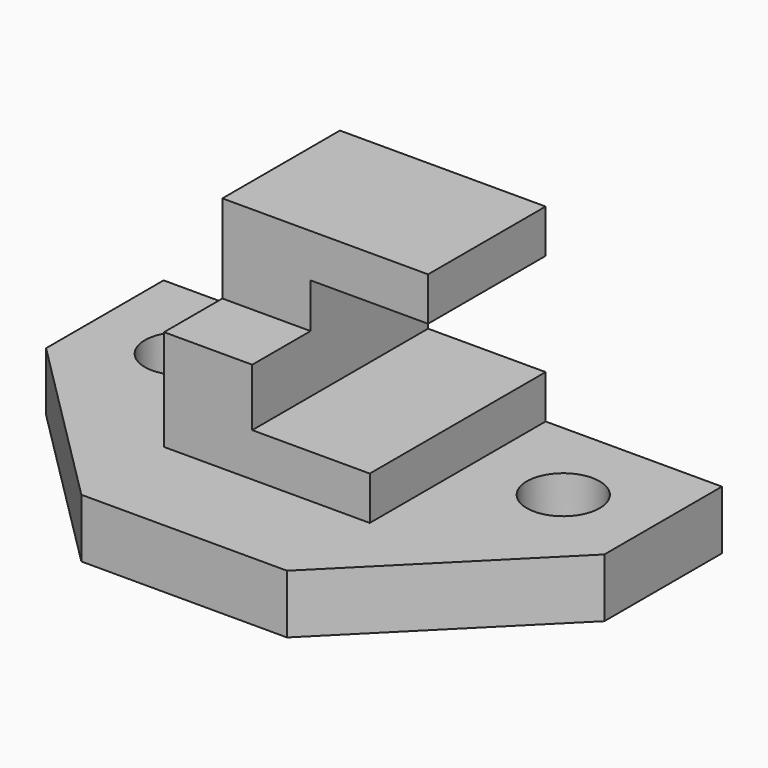
from build123d import *

# Parameters (mm, degrees)
F0_W      = 120.65
F0_H      = 12.7
F1_DEPTH  = 69.85
F2_R      = 7.874
F3_DEPTH  = 15.748
F5_DEPTH  = 12.7
F4_W      = 44.45
F4_H      = 47.498
F6_DEPTH  = 40.894
F7_W      = 47.498
F7_H      = 22.098
F8_DEPTH  = 25.4
F9_W      = 15.748
F9_H      = 19.05
F10_DEPTH = 44.45


with BuildPart() as f1:
    # F0 (on Front) → F1 (new body)
    with BuildSketch(Plane.XZ):
        with Locations((0.915147, -11.16853)):
            Rectangle(F0_W, F0_H)
    extrude(amount=F1_DEPTH)

    # F2 (on face) → F3 (cut)
    with BuildSketch(Plane.XY.offset(-4.81853)):
        with Locations((42.190147, -19.05)):
            Circle(F2_R)
        with Locations((-40.359853, -19.05)):
            Circle(F2_R)
    extrude(amount=-F3_DEPTH, mode=Mode.SUBTRACT)

    # F2 (on face) → F5 (cut)
    with BuildSketch(Plane.XY.offset(-4.81853)):
        Polygon((-59.409853, -69.85), (-21.309853, -69.85), (-59.409853, -31.75), align=None)
        Polygon((61.240147, -69.85), (61.240147, -31.75), (23.140147, -69.85), align=None)
    extrude(amount=-F5_DEPTH, mode=Mode.SUBTRACT)

    # F4 (on face) → F6 (join)
    with BuildSketch(Plane.XY.offset(-4.81853)):
        with Locations((0.915147, -23.749)):
            Rectangle(F4_W, F4_H)
    extrude(amount=F6_DEPTH)

    # F7 (on face) → F8 (cut)
    with BuildSketch(Plane.YZ.offset(23.140147)):
        with Locations((-23.749, 15.62847)):
            Rectangle(F7_W, F7_H)
    extrude(amount=-F8_DEPTH, mode=Mode.SUBTRACT)

    # F9 (on face) → F10 (cut)
    with BuildSketch(Plane(origin=(-21.309853, 0, 0), x_dir=(0, -1, 0), z_dir=(-1, 0, 0))):
        with Locations((39.624, 26.55047)):
            Rectangle(F9_W, F9_H)
    extrude(amount=-F10_DEPTH, mode=Mode.SUBTRACT)


solid = f1.part
